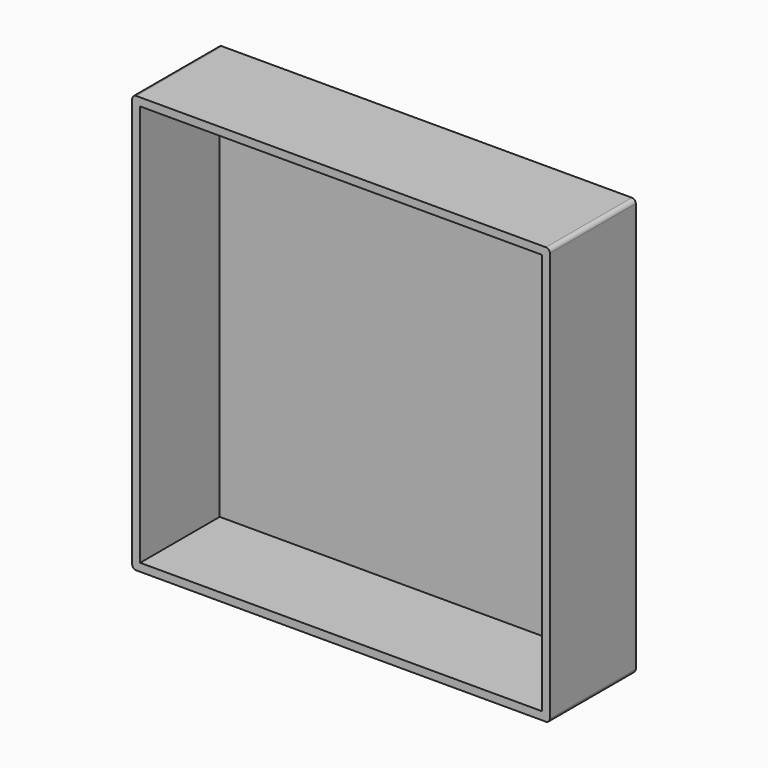
from build123d import *

# Parameters (mm, degrees)
F0_W     = 105
F0_H     = 105
F1_DEPTH = 27
F2_T     = -2
F3_R     = 1


with BuildPart() as f1:
    # F0 (on Front) → F1 (new body)
    with BuildSketch(Plane.XZ):
        with Locations((14.582235, 5.405142)):
            Rectangle(F0_W, F0_H)
    extrude(amount=F1_DEPTH)

    # F2
    f2_openings = [f1.faces().sort_by_distance(p)[0] for p in [
        (14.582235, -27, 5.405142),
    ]]
    offset(amount=F2_T, openings=f2_openings)

    # F3
    f3_edges = [f1.edges().sort_by_distance(p)[0] for p in [
        (67.082235, -13.5, 57.905142),
        (67.082235, -13.5, -47.094858),
        (-37.917765, -13.5, 57.905142),
        (-37.917765, -13.5, -47.094858),
    ]]
    fillet(f3_edges, radius=F3_R)


solid = f1.part
